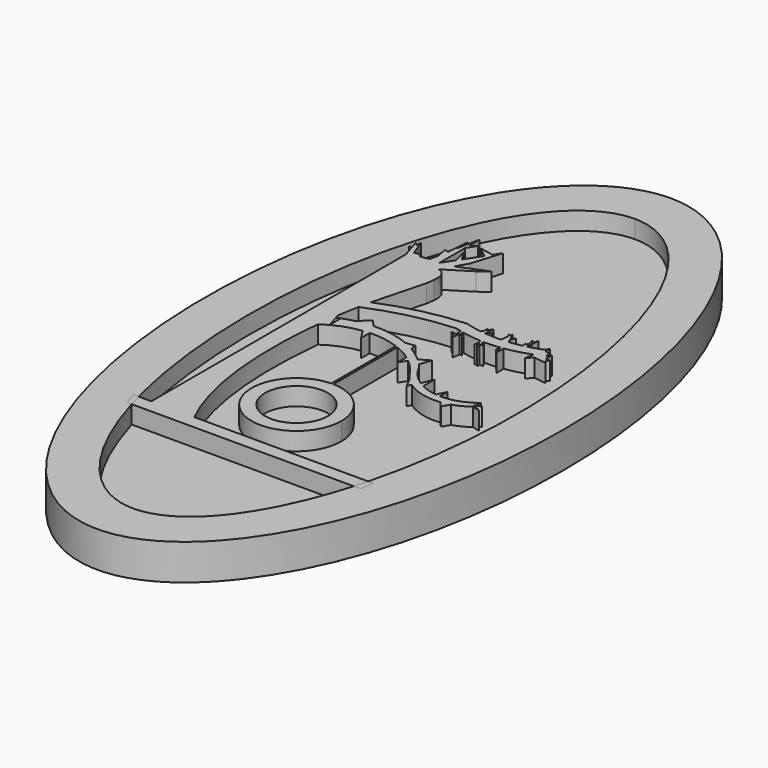
from build123d import *

# Parameters (mm, degrees)
F1_DEPTH = 2.54
F3_DEPTH = 1.27
F4_R     = 2.2225
F5_DEPTH = 1.524


with BuildPart() as f1:
    # F0 (on Top) → F1 (new body)
    with BuildSketch(Plane.XY):
        with BuildLine():
            add(Edge.make_bspline(
                [(0, 25.4), (-21.9970452561, 25.4), (-10.9985226281, -12.7), (0, -50.8), (10.9985226281, -12.7), (21.9970452561, 25.4), (0, 25.4)],
                knots=[0, 0, 0, 2.0943951024, 2.0943951024, 4.1887902048, 4.1887902048, 6.2831853072, 6.2831853072, 6.2831853072], degree=2, weights=[1, 0.5, 1, 0.5, 1, 0.5, 1]))
        make_face()
    extrude(amount=F1_DEPTH)

    # F2 (on face) → F3 (cut)
    with BuildSketch(Plane.XY.offset(2.54)):
        with BuildLine():
            add(Edge.make_bspline(
                [(0, 22.225), (-16.4977839421, 22.225), (-8.248891971, -11.1125), (0, -44.45), (8.248891971, -11.1125), (16.4977839421, 22.225), (0, 22.225)],
                knots=[0, 0, 0, 2.0943951024, 2.0943951024, 4.1887902048, 4.1887902048, 6.2831853072, 6.2831853072, 6.2831853072], degree=2, weights=[1, 0.5, 1, 0.5, 1, 0.5, 1]))
        make_face()
    extrude(amount=-F3_DEPTH, mode=Mode.SUBTRACT)

    # F4 (on face) → F5 (join)
    with BuildSketch(Plane.XY.offset(2.54)):
        with BuildLine():
            add(Edge.make_bspline(
                [(-4.7080313752, 10.7139181151), (-5.4713400485, 10.9034927214), (-6.8693948976, 10.5328550078), (-7.2367720573, 10.9650496119)],
                knots=[0.8455246509, 0.8455246509, 0.8455246509, 0.8455246509, 1, 1, 1, 1], degree=3))
            Line((-7.2367720573, 10.9650496119), (-7.2367720573, -11.5661563062))
            Line((-7.2367720573, -11.5661563062), (-4.1899275223, -11.5661563062))
            add(Edge.make_bspline(
                [(-4.1899275223, -11.5661563062), (-4.8930109161, -10.2390033588), (-6.1216278121, -6.33229546), (-6.0592081019, -0.945108129), (-5.8070588848, 1.3995562847)],
                knots=[0, 0, 0, 0, 0.2587150187, 0.4663560596, 0.4663560596, 0.4663560596, 0.4663560596], degree=3))
            add(Edge.make_bspline(
                [(-5.8070588848, 1.3995562847), (-5.8068721996, 1.4012922169), (-5.8066853915, 1.4030281196), (-5.8064984605, 1.4047639926)],
                knots=[0.4663560596, 0.4663560596, 0.4663560596, 0.4663560596, 0.4665097919, 0.4665097919, 0.4665097919, 0.4665097919], degree=3))
            add(Edge.make_bspline(
                [(-5.8064984605, 1.4047639926), (-5.6959567084, 2.4312730557), (-5.5424129278, 3.4473942219), (-5.3485172684, 4.4239699081)],
                knots=[0.4665097919, 0.4665097919, 0.4665097919, 0.4665097919, 0.5574194704, 0.5574194704, 0.5574194704, 0.5574194704], degree=3))
            add(Edge.make_bspline(
                [(-5.3485172684, 4.4239699081), (-5.2911246869, 4.7130336233), (-5.2301967009, 4.9986325861), (-5.1658020384, 5.2800106351)],
                knots=[0.5574194704, 0.5574194704, 0.5574194704, 0.5574194704, 0.584328485, 0.584328485, 0.584328485, 0.584328485], degree=3))
            add(Edge.make_bspline(
                [(-5.1658020384, 5.2800106351), (-5.1134965545, 5.5085639724), (-4.7775049962, 6.8980592927), (-4.3562731316, 8.1667206033), (-4.1925253296, 8.9974836669)],
                knots=[0.584328485, 0.584328485, 0.584328485, 0.584328485, 0.6061857163, 0.7188491189, 0.7188491189, 0.7188491189, 0.7188491189], degree=3))
            add(Edge.make_bspline(
                [(-4.1925253296, 8.9974836669), (-4.1531702329, 9.1971490076), (-4.1247347614, 9.3834269742), (-4.1106733943, 9.5542767166)],
                knots=[0.7188491189, 0.7188491189, 0.7188491189, 0.7188491189, 0.7459266067, 0.7459266067, 0.7459266067, 0.7459266067], degree=3))
            add(Edge.make_bspline(
                [(-4.1106733943, 9.5542767166), (-4.0675283661, 10.0785014862), (-4.1780352359, 10.532806099), (-4.6264250664, 10.6936504509), (-4.7080313752, 10.7139181151)],
                knots=[0.7459266067, 0.7459266067, 0.7459266067, 0.7459266067, 0.8290094933, 0.8455246509, 0.8455246509, 0.8455246509, 0.8455246509], degree=3))
        make_face()
        with BuildLine():
            Line((-7.4435139159, 11.6497752836), (-7.2367720573, 10.9650496119))
            add(Edge.make_bspline(
                [(-4.7080313752, 10.7139181151), (-5.4713400485, 10.9034927214), (-6.8693948976, 10.5328550078), (-7.2367720573, 10.9650496119)],
                knots=[0.8455246509, 0.8455246509, 0.8455246509, 0.8455246509, 1, 1, 1, 1], degree=3))
            Line((-4.7080313752, 10.7139181151), (-4.2434285745, 11.5299144476))
            Line((-4.2434285745, 11.5299144476), (-3.7788257739, 12.3459107802))
            Line((-3.7788257739, 12.3459107802), (-3.1337924302, 14.4378440455))
            Line((-3.1337924302, 14.4378440455), (-3.4557252586, 13.946015341))
            Line((-3.4557252586, 13.946015341), (-3.7165692188, 13.5475143631))
            Line((-3.7165692188, 13.5475143631), (-4.4398773315, 12.4424897724))
            Line((-4.4398773315, 12.4424897724), (-4.6349750314, 12.1444317911))
            Line((-4.6349750314, 12.1444317911), (-5.1562658748, 11.3480364642))
            Line((-5.1562658748, 11.3480364642), (-5.1562658748, 13.6145972668))
            Line((-5.1562658748, 13.6145972668), (-5.1562658748, 13.9760741365))
            Line((-5.1562658748, 13.9760741365), (-5.1562658748, 14.9131696343))
            Line((-5.1562658748, 14.9131696343), (-5.4775565646, 13.2967542914))
            Line((-5.4775565646, 13.2967542914), (-5.5991387378, 12.6850736658))
            Line((-5.5991387378, 12.6850736658), (-5.7361735179, 11.9956508842))
            Line((-5.7361735179, 11.9956508842), (-5.8593293652, 11.3760530949))
            Line((-5.8593293652, 11.3760530949), (-6.4310808666, 11.2644918263))
            Line((-6.4310808666, 11.2644918263), (-6.6681485623, 11.4736696705))
            Line((-6.6681485623, 11.4736696705), (-7.0120233741, 11.4178779992))
            Line((-7.0120233741, 11.4178779992), (-7.2504235931, 12.0636021975))
            Line((-7.2504235931, 12.0636021975), (-7.4616838748, 12.5939709357))
            Line((-7.4616838748, 12.5939709357), (-7.4616838748, 12.2338476852))
            Line((-7.4616838748, 12.2338476852), (-7.5006049955, 11.8388600102))
            Line((-7.5006049955, 11.8388600102), (-7.4435139159, 11.6497752836))
        make_face()
        Polygon((-4.1899275223, -11.5661563062), (-7.2367720573, -11.5661563062), (-8.5204483494, -11.5661563062), (-8.1880697046, -12.5181842442), (8.3705116448, -12.5181842442), (8.4732816602, -11.5661563062), align=None)
        Polygon((-4.2434285745, 11.5299144476), (-4.7080313752, 10.7139181151), (-2.9252482107, 11.8243222072), (-2.2435065414, 12.3459107802), align=None)
        Polygon((-7.7028864278, 11.8587923285), (-7.4435139159, 11.6497752836), (-7.5006049955, 11.8388600102), align=None)
        Polygon((-7.6707290517, 12.4023081161), (-7.5006049955, 11.8388600102), (-7.4616838748, 12.2338476852), align=None)
        with BuildLine():
            add(Edge.make_bspline(
                [(-5.8070588848, 1.3995562847), (-5.8068721996, 1.4012922169), (-5.8066853915, 1.4030281196), (-5.8064984605, 1.4047639926)],
                knots=[0.4663560596, 0.4663560596, 0.4663560596, 0.4663560596, 0.4665097919, 0.4665097919, 0.4665097919, 0.4665097919], degree=3))
            ThreePointArc((-5.8070588848, 1.3995562847), (-4.6505977468, 2.0180854014), (-3.3797953146, 2.3421869446))
            ThreePointArc((-3.3797953146, 2.3421869446), (-3.1505087484, 2.3670062519), (-2.9203769167, 2.3820949074))
            ThreePointArc((-2.9203769167, 2.3820949074), (-1.843295078, 2.3228894476), (-0.7990156469, 2.0525358947))
            ThreePointArc((-0.7990156469, 2.0525358947), (-0.72206648, 2.023564527), (-0.6455635105, 1.9934346403))
            ThreePointArc((-0.6455635105, 1.9934346403), (-0.0577034588, 1.7148852311), (0.4927466222, 1.3682241257))
            ThreePointArc((0.4927466222, 1.3682241257), (0.6601260132, 1.2433509726), (0.8225945292, 1.1121520922))
            ThreePointArc((0.8225945292, 1.1121520922), (1.3546444569, 0.5999913486), (1.8125045954, 0.0205520969))
            Line((1.8125045954, 0.0205520969), (1.8125045954, 0.8275193158))
            ThreePointArc((1.8125045954, 0.8275193158), (1.6823616111, 0.9860051636), (1.5470276755, 1.1400820475))
            ThreePointArc((1.5470276755, 1.1400820475), (1.3446996043, 1.3524944509), (1.1325115472, 1.5550577888))
            ThreePointArc((1.1325115472, 1.5550577888), (0.6144866319, 1.9776452264), (0.0538130706, 2.3417538816))
            ThreePointArc((0.0538130706, 2.3417538816), (-0.2904179255, 2.525452696), (-0.6455635105, 2.6870443005))
            ThreePointArc((-0.6455635105, 2.6870443005), (-1.9280547546, 3.0654572811), (-3.2619388005, 3.1589106234))
            ThreePointArc((-3.2619388005, 3.1589106234), (-3.2619897774, 3.1589086576), (-3.2620407542, 3.1589066913))
            ThreePointArc((-3.2620407542, 3.1589066913), (-3.8536971198, 3.1075030031), (-4.4376788771, 2.9994988302))
            ThreePointArc((-4.4376788771, 2.9994988302), (-5.0602799596, 2.8180920713), (-5.6604224026, 2.5723898772))
            Line((-5.6604224026, 2.5723898772), (-5.8064984605, 1.4047639926))
        make_face()
        with BuildLine():
            ThreePointArc((-2.9203769167, 2.3820949074), (-3.1505087484, 2.3670062519), (-3.3797953146, 2.3421869446))
            Line((-3.3797953146, 2.3421869446), (-2.9203769167, 1.6213399127))
            Line((-2.9203769167, 1.6213399127), (-2.9203769167, 2.3820949074))
        make_face()
        with BuildLine():
            ThreePointArc((0.6050458668, 6.6162504403), (-2.3376524225, 6.1954824611), (-5.1658020384, 5.2800106351))
            add(Edge.make_bspline(
                [(-5.3485172684, 4.4239699081), (-5.2911246869, 4.7130336233), (-5.2301967009, 4.9986325861), (-5.1658020384, 5.2800106351)],
                knots=[0.5574194704, 0.5574194704, 0.5574194704, 0.5574194704, 0.584328485, 0.584328485, 0.584328485, 0.584328485], degree=3))
            ThreePointArc((-5.3485172684, 4.4239699081), (-2.472329304, 5.3704470231), (0.5243987352, 5.8039181227))
            ThreePointArc((0.5243987352, 5.8039181227), (0.7035150633, 5.7522599089), (0.883788437, 5.7047968628))
            ThreePointArc((0.883788437, 5.7047968628), (0.9912698683, 5.6786261946), (1.0991035165, 5.6539469267))
            Line((1.0991035165, 5.6539469267), (2.3309843012, 5.6132077294))
            Line((2.3309843012, 5.6132077294), (1.7467790115, 6.3619514379))
            ThreePointArc((1.7467790115, 6.3619514379), (1.1712499737, 6.4681677411), (0.6050458668, 6.6162504403))
        make_face()
        Polygon((-3.7165692188, 13.5475143631), (-3.4557252586, 13.946015341), (-4.440432984, 14.1308447398), align=None)
        with BuildLine():
            Line((-3.7250108589, 3.6591137053), (-4.4376788771, 2.9994988302))
            ThreePointArc((-4.4376788771, 2.9994988302), (-3.8536971198, 3.1075030031), (-3.2620407542, 3.1589066913))
            Line((-3.2620407542, 3.1589066913), (-3.7250108589, 3.6591137053))
        make_face()
        with BuildLine():
            ThreePointArc((-0.6455635105, 1.9934346403), (-0.72206648, 2.023564527), (-0.7990156469, 2.0525358947))
            Line((-0.7990156469, 2.0525358947), (-0.7990156469, -3.677868567))
            ThreePointArc((-0.7990156469, -3.677868567), (-0.7222895787, -3.6769413624), (-0.6455635105, -3.677868567))
            Line((-0.6455635105, -3.677868567), (-0.6455635105, 1.9934346403))
        make_face()
        with BuildLine():
            Line((1.8477003455, 6.518566041), (1.7467790115, 6.3619514379))
            ThreePointArc((1.7467790115, 6.3619514379), (1.9191509014, 6.3385465761), (2.0919917085, 6.3189019492))
            Line((2.0919917085, 6.3189019492), (2.1022867064, 6.4165804412))
            Line((2.1022867064, 6.4165804412), (2.1130356596, 6.518566041))
            Line((2.1130356596, 6.518566041), (1.8477003455, 6.518566041))
        make_face()
        with BuildLine():
            ThreePointArc((2.0919917085, 6.3189019492), (1.9191509014, 6.3385465761), (1.7467790115, 6.3619514379))
            Line((1.7467790115, 6.3619514379), (2.3309843012, 5.6132077294))
            Line((2.3309843012, 5.6132077294), (2.7633745699, 5.5989082674))
            Line((2.7633745699, 5.5989082674), (3.2704688632, 6.2854314017))
            ThreePointArc((3.2704688632, 6.2854314017), (3.2586450189, 6.2849019223), (3.2468204027, 6.2843899682))
            ThreePointArc((3.2468204027, 6.2843899682), (2.668781085, 6.2807333935), (2.0919917085, 6.3189019492))
        make_face()
        with BuildLine():
            ThreePointArc((1.0991035165, 5.6539469267), (0.9912698683, 5.6786261946), (0.883788437, 5.7047968628))
            Line((0.883788437, 5.7047968628), (0.9300967829, 5.2651170055))
            Line((0.9300967829, 5.2651170055), (0.9548302786, 5.0302820177))
            Line((0.9548302786, 5.0302820177), (1.0559645498, 5.3626549515))
            Line((1.0559645498, 5.3626549515), (1.0785975196, 5.5154820356))
            Line((1.0785975196, 5.5154820356), (1.0991035165, 5.6539469267))
        make_face()
        with BuildLine():
            ThreePointArc((-0.6455635105, -3.677868567), (-0.7222895787, -3.6769413624), (-0.7990156469, -3.677868567))
            Line((-0.7990156469, -3.677868567), (-0.6455635105, -3.677868567))
        make_face()
        with BuildLine():
            Line((-0.6455635105, -3.677868567), (-0.7990156469, -3.677868567))
            ThreePointArc((-0.7990156469, -3.677868567), (-2.9400609525, -9.1239702208), (2.4527104213, -6.8519413624))
            ThreePointArc((2.4527104213, -6.8519413624), (1.5497392797, -4.6341699885), (-0.6455635105, -3.677868567))
        make_face()
        with Locations((-0.7222895787, -6.8519413624)):
            Circle(F4_R, mode=Mode.SUBTRACT)
        with BuildLine():
            Line((3.2468204027, 6.2843899682), (2.0919917085, 6.3189019492))
            ThreePointArc((2.0919917085, 6.3189019492), (2.668781085, 6.2807333935), (3.2468204027, 6.2843899682))
        make_face()
        Polygon((1.8842492354, 6.8653403178), (1.8477003455, 6.518566041), (1.9338163062, 6.6522049504), align=None)
        Polygon((1.9338163062, 6.6522049504), (1.8477003455, 6.518566041), (2.1130356596, 6.518566041), (2.1649200537, 7.0108429137), align=None)
        with BuildLine():
            Line((2.7633745699, 5.5989082674), (2.3309843012, 5.6132077294))
            Line((2.3309843012, 5.6132077294), (2.4394190172, 5.4742329327))
            ThreePointArc((2.4394190172, 5.4742329327), (2.5524546025, 5.4695471771), (2.6655452268, 5.4664632604))
            Line((2.6655452268, 5.4664632604), (2.7633745699, 5.5989082674))
        make_face()
        with BuildLine():
            Line((2.4394190172, 5.4742329327), (2.3309843012, 5.6132077294))
            Line((2.3309843012, 5.6132077294), (1.0991035165, 5.6539469267))
            ThreePointArc((1.0991035165, 5.6539469267), (1.7654501895, 5.5356667343), (2.4394190172, 5.4742329327))
        make_face()
        Polygon((-4.6349750314, 12.1444317911), (-4.4398773315, 12.4424897724), (-4.8994663162, 13.2295784438), align=None)
        Polygon((0.9548302786, 5.0302820177), (0.9300967829, 5.2651170055), (0.5310662518, 5.3242115437), align=None)
        with BuildLine():
            ThreePointArc((0.8225945292, 1.1121520922), (0.6601260132, 1.2433509726), (0.4927466222, 1.3682241257))
            Line((0.4927466222, 1.3682241257), (0.4927466222, 0.5926938754))
            Line((0.4927466222, 0.5926938754), (0.8225945292, 1.1121520922))
        make_face()
        with BuildLine():
            Line((3.320639113, 6.8183443176), (3.2468204027, 6.2843899682))
            ThreePointArc((3.2468204027, 6.2843899682), (3.2586450189, 6.2849019223), (3.2704688632, 6.2854314017))
            Line((3.2704688632, 6.2854314017), (3.5428591129, 6.6542034632))
            Line((3.5428591129, 6.6542034632), (3.320639113, 6.8183443176))
        make_face()
        Polygon((2.1130356596, 6.518566041), (2.1022867064, 6.4165804412), (2.3877845529, 6.6025799377), align=None)
        with BuildLine():
            ThreePointArc((2.6655452268, 5.4664632604), (2.5524546025, 5.4695471771), (2.4394190172, 5.4742329327))
            Line((2.4394190172, 5.4742329327), (2.5234710415, 5.2741179386))
            Line((2.5234710415, 5.2741179386), (2.6655452268, 5.4664632604))
        make_face()
        with BuildLine():
            Line((3.2704688632, 6.2854314017), (2.7633745699, 5.5989082674))
            Line((2.7633745699, 5.5989082674), (3.9538204368, 5.5595393531))
            Line((3.9538204368, 5.5595393531), (4.6816373915, 6.4767851512))
            ThreePointArc((4.6816373915, 6.4767851512), (4.6492863172, 6.4694833134), (4.6169051963, 6.4623158971))
            ThreePointArc((4.6169051963, 6.4623158971), (4.2030753316, 6.3829982419), (3.7856377455, 6.325619595))
            ThreePointArc((3.7856377455, 6.325619595), (3.5283784577, 6.3013573859), (3.2704688632, 6.2854314017))
        make_face()
        with BuildLine():
            Line((3.9538204368, 5.5595393531), (2.7633745699, 5.5989082674))
            Line((2.7633745699, 5.5989082674), (2.6655452268, 5.4664632604))
            ThreePointArc((2.6655452268, 5.4664632604), (2.6810579215, 5.466165264), (2.6965711659, 5.4658974089))
            Line((2.6965711659, 5.4658974089), (3.830893994, 5.5282324994))
            ThreePointArc((3.830893994, 5.5282324994), (3.885787746, 5.5353843667), (3.9406306005, 5.5429165995))
            Line((3.9406306005, 5.5429165995), (3.9538204368, 5.5595393531))
        make_face()
        Polygon((1.2567807647, 5.332915018), (1.0785975196, 5.5154820356), (1.0559645498, 5.3626549515), align=None)
        Polygon((1.0559645498, 5.3626549515), (0.9548302786, 5.0302820177), (0.9764051289, 4.8254371482), align=None)
        with BuildLine():
            Line((0, 2.7684583816), (-0.6455635105, 2.6870443005))
            ThreePointArc((-0.6455635105, 2.6870443005), (-0.2904179255, 2.525452696), (0.0538130706, 2.3417538816))
            Line((0.0538130706, 2.3417538816), (0, 2.7684583816))
        make_face()
        with BuildLine():
            Line((3.5428591129, 6.6542034632), (3.2704688632, 6.2854314017))
            ThreePointArc((3.2704688632, 6.2854314017), (3.5283784577, 6.3013573859), (3.7856377455, 6.325619595))
            Line((3.7856377455, 6.325619595), (3.6670323951, 6.5624839571))
            Line((3.6670323951, 6.5624839571), (3.5428591129, 6.6542034632))
        make_face()
        Polygon((3.1807556193, 7.0977028323), (3.320639113, 6.8183443176), (3.3427208561, 6.9780686304), align=None)
        Polygon((3.3427208561, 6.9780686304), (3.320639113, 6.8183443176), (3.5428591129, 6.6542034632), (3.5894924537, 6.7173374162), (3.3678650956, 7.1599449602), align=None)
        with BuildLine():
            ThreePointArc((2.6965711659, 5.4658974089), (2.6810579215, 5.466165264), (2.6655452268, 5.4664632604))
            Line((2.6655452268, 5.4664632604), (2.5234710415, 5.2741179386))
            Line((2.5234710415, 5.2741179386), (2.5679950915, 5.1681129959))
            Line((2.5679950915, 5.1681129959), (2.6965711659, 4.8619930591))
            Line((2.6965711659, 4.8619930591), (2.6965711659, 5.102263022))
            Line((2.6965711659, 5.102263022), (2.6965711659, 5.2927102792))
            Line((2.6965711659, 5.2927102792), (2.6965711659, 5.4658974089))
        make_face()
        Polygon((2.5679950915, 5.1681129959), (2.5234710415, 5.2741179386), (2.464652816, 4.9518114829), align=None)
        with BuildLine():
            Line((4.6816373915, 6.4767851512), (3.9538204368, 5.5595393531))
            Line((3.9538204368, 5.5595393531), (4.035367858, 5.5568425203))
            ThreePointArc((4.035367858, 5.5568425203), (4.9160613443, 5.743025721), (5.7702054064, 6.0271438692))
            Line((5.7702054064, 6.0271438692), (5.6773460424, 5.3781807133))
            Line((5.6773460424, 5.3781807133), (6.0363652958, 5.7799410342))
            Line((6.0363652958, 5.7799410342), (6.93243824, 5.6584657996))
            Line((6.93243824, 5.6584657996), (6.766661448, 5.8312586103))
            Line((6.766661448, 5.8312586103), (6.9384089193, 6.0271438692))
            Line((6.9384089193, 6.0271438692), (6.6244518729, 6.0455490803))
            Line((6.6244518729, 6.0455490803), (6.6550569529, 6.5676121259))
            Line((6.6550569529, 6.5676121259), (6.4254676449, 6.3057558045))
            Line((6.4254676449, 6.3057558045), (6.4254676449, 6.6892146588))
            Line((6.4254676449, 6.6892146588), (6.0726665425, 6.7098970382))
            Line((6.0726665425, 6.7098970382), (6.0726665425, 7.0940928103))
            Line((6.0726665425, 7.0940928103), (5.850852538, 6.8394761868))
            ThreePointArc((5.850852538, 6.8394761868), (5.3797039808, 6.6695471484), (4.8988292978, 6.5294886593))
            ThreePointArc((4.8988292978, 6.5294886593), (4.7904177347, 6.5023770312), (4.6816373915, 6.4767851512))
        make_face()
        with BuildLine():
            Line((4.035367858, 5.5568425203), (3.9538204368, 5.5595393531))
            Line((3.9538204368, 5.5595393531), (3.9406306005, 5.5429165995))
            ThreePointArc((3.9406306005, 5.5429165995), (3.988020103, 5.5497375572), (4.035367858, 5.5568425203))
        make_face()
        with BuildLine():
            Line((1.8125045954, 0.8275193158), (1.8125045954, 0.0205520969))
            ThreePointArc((1.8125045954, 0.0205520969), (2.0282377451, -0.2892577154), (2.2751134753, -0.5748715903))
            ThreePointArc((2.2751134753, -0.5748715903), (2.5201976859, -0.8073507442), (2.7859181777, -1.0159303393))
            ThreePointArc((2.7859181777, -1.0159303393), (3.9979824279, -1.5761293005), (5.3307334067, -1.657967256))
            Line((5.3307334067, -1.657967256), (4.8599637337, -1.1093310544))
            ThreePointArc((4.8599637337, -1.1093310544), (4.7034291111, -1.1027436043), (4.5473508472, -1.0891032927))
            ThreePointArc((4.5473508472, -1.0891032927), (3.945617721, -0.9682514261), (3.3745529936, -0.7433669978))
            ThreePointArc((3.3745529936, -0.7433669978), (3.2024470294, -0.6511842743), (3.0357929664, -0.5494761592))
            ThreePointArc((3.0357929664, -0.5494761592), (2.3312023579, 0.0564502987), (1.8125045954, 0.8275193158))
        make_face()
        with BuildLine():
            Line((4.6169051963, 6.4623158971), (3.7856377455, 6.325619595))
            ThreePointArc((3.7856377455, 6.325619595), (4.2030753316, 6.3829982419), (4.6169051963, 6.4623158971))
        make_face()
        Polygon((3.5894924537, 6.7173374162), (3.5428591129, 6.6542034632), (3.6670323951, 6.5624839571), align=None)
        with BuildLine():
            Line((3.830893994, 5.5282324994), (2.6965711659, 5.4658974089))
            ThreePointArc((2.6965711659, 5.4658974089), (3.2648424789, 5.476867923), (3.830893994, 5.5282324994))
        make_face()
        with BuildLine():
            Line((4.035367858, 4.9388239434), (4.035367858, 5.5568425203))
            ThreePointArc((4.035367858, 5.5568425203), (3.988020103, 5.5497375572), (3.9406306005, 5.5429165995))
            Line((3.9406306005, 5.5429165995), (3.8607319526, 5.4422227388))
            Line((3.8607319526, 5.4422227388), (3.9188049299, 5.2748237909))
            Line((3.9188049299, 5.2748237909), (4.035367858, 4.9388239434))
        make_face()
        with BuildLine():
            Line((4.9224001753, 6.7802112397), (4.6816373915, 6.4767851512))
            ThreePointArc((4.6816373915, 6.4767851512), (4.7904177347, 6.5023770312), (4.8988292978, 6.5294886593))
            Line((4.8988292978, 6.5294886593), (4.9224001753, 6.7802112397))
        make_face()
        with BuildLine():
            ThreePointArc((4.6169051963, 6.4623158971), (4.6492863172, 6.4694833134), (4.6816373915, 6.4767851512))
            Line((4.6816373915, 6.4767851512), (4.9224001753, 6.7802112397))
            Line((4.9224001753, 6.7802112397), (4.931022026, 6.871921557))
            Line((4.931022026, 6.871921557), (4.658612107, 6.5741978471))
            Line((4.658612107, 6.5741978471), (4.6169051963, 6.4623158971))
        make_face()
        with BuildLine():
            Line((3.8607319526, 5.4422227388), (3.9406306005, 5.5429165995))
            ThreePointArc((3.9406306005, 5.5429165995), (3.885787746, 5.5353843667), (3.830893994, 5.5282324994))
            Line((3.830893994, 5.5282324994), (3.8607319526, 5.4422227388))
        make_face()
        Polygon((-5.1562658748, 13.9760741365), (-5.1562658748, 13.6145972668), (-4.7497527056, 14.2729615338), align=None)
        Polygon((-5.8791205093, 12.7407249171), (-5.7361735179, 11.9956508842), (-5.5991387378, 12.6850736658), align=None)
        with BuildLine():
            Line((1.8403013802, 1.9700335302), (1.1325115472, 1.5550577888))
            ThreePointArc((1.1325115472, 1.5550577888), (1.3446996043, 1.3524944509), (1.5470276755, 1.1400820475))
            Line((1.5470276755, 1.1400820475), (1.8403013802, 1.9700335302))
        make_face()
        with BuildLine():
            ThreePointArc((2.7859181777, -1.0159303393), (2.5201976859, -0.8073507442), (2.2751134753, -0.5748715903))
            Line((2.2751134753, -0.5748715903), (2.6422967747, -1.2902514949))
            Line((2.6422967747, -1.2902514949), (2.7859181777, -1.0159303393))
        make_face()
        Polygon((3.5894924537, 6.7173374162), (3.6670323951, 6.5624839571), (3.8405354287, 6.9132130307), align=None)
        Polygon((2.9544057534, 5.102263022), (2.6965711659, 5.2927102792), (2.6965711659, 5.102263022), align=None)
        Polygon((4.931022026, 6.871921557), (4.9224001753, 6.7802112397), (5.0312545578, 6.7802112397), align=None)
        Polygon((3.9188049299, 5.2748237909), (3.8607319526, 5.4422227388), (3.7768324098, 5.217155854), align=None)
        Polygon((-5.4775565646, 14.2348101363), (-5.5991387378, 12.6850736658), (-5.4775565646, 13.2967542914), align=None)
        with BuildLine():
            Line((3.3745529936, 0.2440002994), (3.0357929664, -0.5494761592))
            ThreePointArc((3.0357929664, -0.5494761592), (3.2024470294, -0.6511842743), (3.3745529936, -0.7433669978))
            Line((3.3745529936, -0.7433669978), (3.3745529936, 0.2440002994))
        make_face()
        Polygon((4.5732696577, 6.8202027339), (4.658612107, 6.5741978471), (4.6940511014, 6.6692656366), align=None)
        Polygon((4.6940511014, 6.6692656366), (4.658612107, 6.5741978471), (4.931022026, 6.871921557), (4.9854619817, 7.4509974179), (4.8331221434, 7.0423342511), (4.7796132337, 6.898792544), align=None)
        with BuildLine():
            Line((4.8599637337, -1.1093310544), (5.3307334067, -1.657967256))
            ThreePointArc((5.3307334067, -1.657967256), (5.6472008079, -1.6039986341), (5.957630033, -1.5221577861))
            ThreePointArc((5.957630033, -1.5221577861), (6.5382781944, -1.2840630276), (7.0689816266, -0.9491074061))
            Line((7.0689816266, -0.9491074061), (7.604912, -1.1010704926))
            Line((7.604912, -1.1010704926), (6.989649985, -0.769023943))
            Line((6.989649985, -0.769023943), (7.4681868934, -0.632299801))
            Line((7.4681868934, -0.632299801), (7.0689816266, -0.632299801))
            Line((7.0689816266, -0.632299801), (7.1541233224, -0.3320293741))
            Line((7.1541233224, -0.3320293741), (6.9701180336, -0.4459656505))
            ThreePointArc((6.9701180336, -0.4459656505), (5.9692633312, -0.950129055), (4.8599637337, -1.1093310544))
        make_face()
        with BuildLine():
            ThreePointArc((5.957630033, -1.5221577861), (5.6472008079, -1.6039986341), (5.3307334067, -1.657967256))
            Line((5.3307334067, -1.657967256), (5.6584960719, -2.0399427187))
            Line((5.6584960719, -2.0399427187), (5.957630033, -1.5221577861))
        make_face()
        with BuildLine():
            ThreePointArc((4.5473508472, -1.0891032927), (4.7034291111, -1.1027436043), (4.8599637337, -1.1093310544))
            Line((4.8599637337, -1.1093310544), (4.8599637337, -0.4638372951))
            Line((4.8599637337, -0.4638372951), (4.5473508472, -1.0891032927))
        make_face()
        Polygon((4.6816206946, 7.2868387386), (4.7796132337, 6.898792544), (4.8331221434, 7.0423342511), align=None)
    extrude(amount=-F5_DEPTH)


solid = f1.part
